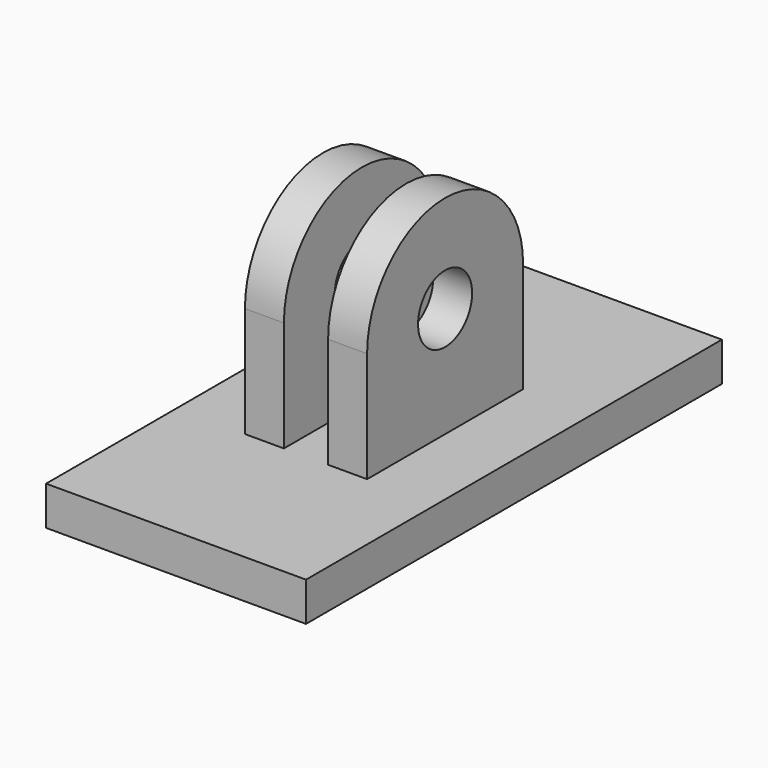
from build123d import *

# Parameters (mm, degrees)
F1_R     = 2.6
F2_DEPTH = 3
F4_W     = 20
F4_H     = 40
F5_DEPTH = 3


with BuildPart() as f2:
    # F1 (on offset) → F2 (new body)
    with BuildSketch(Plane.YZ.offset(1.7)):
        with BuildLine():
            Line((7.5, 0), (7.5, 8.5))
            ThreePointArc((7.5, 8.5), (0, 16), (-7.5, 8.5))
            Line((-7.5, 8.5), (-7.5, 0))
            Line((-7.5, 0), (7.5, 0))
        make_face()
        with Locations((0, 8.5)):
            Circle(F1_R, mode=Mode.SUBTRACT)
    extrude(amount=F2_DEPTH)


with BuildPart() as f3_1:
    # F3: instance of F2
    add(f2.part.mirror(Plane.YZ))


with BuildPart() as f5:
    # F4 (on Top) → F5 (new body)
    with BuildSketch(Plane.XY):
        Rectangle(F4_W, F4_H)
    extrude(amount=-F5_DEPTH)


solid = Compound([f2.part, f3_1.part, f5.part])
